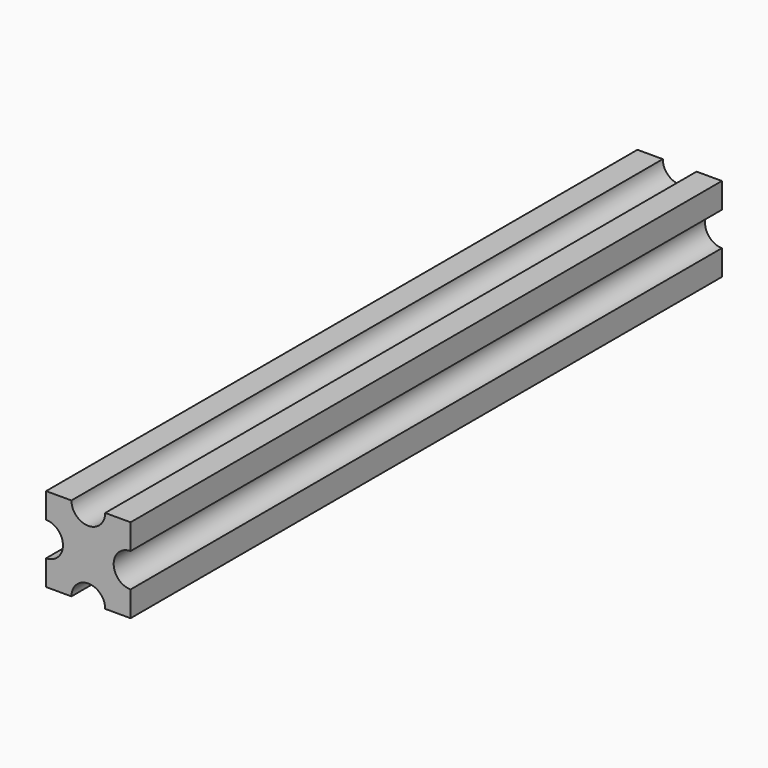
from build123d import *

# Parameters (mm, degrees)
F1_DEPTH = 350


with BuildPart() as f1:
    # F0 (on Front) → F1 (new body)
    with BuildSketch(Plane.XZ):
        with BuildLine():
            Line((8, -20), (20, -20))
            Line((20, -20), (20, -8))
            ThreePointArc((20, -8), (12, 0), (20, 8))
            Line((20, 8), (20, 20))
            Line((20, 20), (8, 20))
            ThreePointArc((8, 20), (0, 12), (-8, 20))
            Line((-8, 20), (-20, 20))
            Line((-20, 20), (-20, 8))
            ThreePointArc((-20, 8), (-14.343146, 5.656854), (-12, 0))
            ThreePointArc((-12, 0), (-14.343146, -5.656854), (-20, -8))
            Line((-20, -8), (-20, -20))
            Line((-20, -20), (-8, -20))
            ThreePointArc((-8, -20), (0, -12), (8, -20))
        make_face()
    extrude(amount=F1_DEPTH)


solid = f1.part
